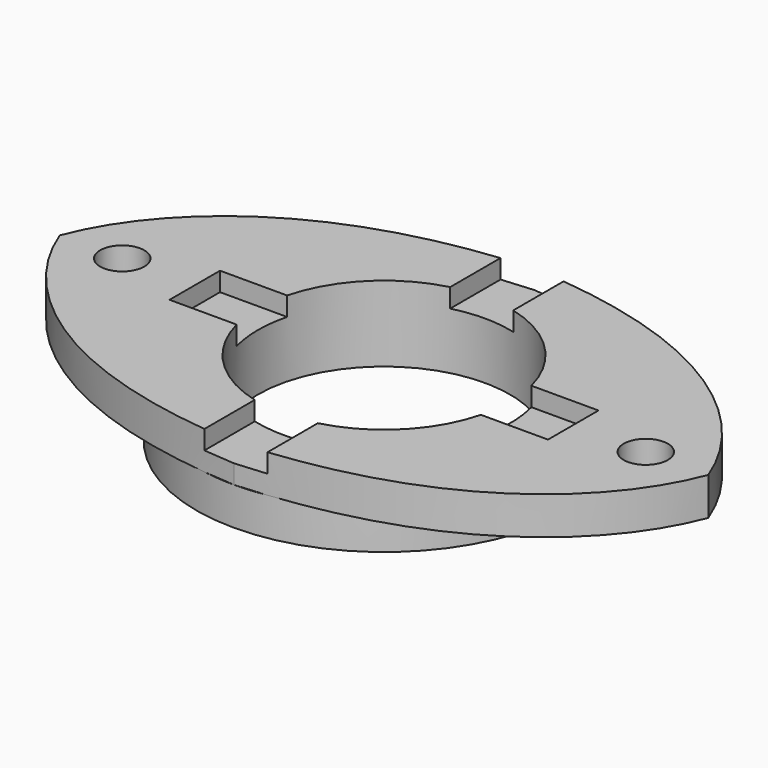
from build123d import *

# Parameters (mm, degrees)
F0_R      = 29.75
F1_DEPTH  = 6
F3_D      = 40
F5_DEPTH  = 6
F7_D      = 40
F9_D      = 7
F10_W     = 10
F10_H     = 65.1724559439
F11_DEPTH = 3
F12_W     = 60
F12_H     = 10
F13_DEPTH = 3


with BuildPart() as f1:
    # F0 (on Top) → F1 (new body)
    with BuildSketch(Plane.XY):
        Circle(F0_R)
    extrude(amount=F1_DEPTH)

    # F3 (through all)
    with Locations(Plane(origin=(0, 0, 0), x_dir=(1, 0, 0), z_dir=(0, 0, -1))):
        with Locations((0, 0)):
            Hole(F3_D / 2)

    # F4 (on face) → F5 (join)
    with BuildSketch(Plane.XY.offset(6)):
        with BuildLine():
            add(Edge.make_bspline(
                [(-51.4080040157, 0), (-48.3840033412, 7.9380003735), (-35.2209347961, 22.8401058322), (-13.735502027, 28.9573147893), (0, 29.75)],
                knots=[0, 0, 0, 0, 0.4596753041, 1, 1, 1, 1], degree=3))
            add(Edge.make_bspline(
                [(-51.4080040157, 0), (-48.3840033412, -7.9380003735), (-35.2209347961, -22.8401058322), (-13.735502027, -28.9573147893), (0, -29.75)],
                knots=[0, 0, 0, 0, 0.4596753041, 1, 1, 1, 1], degree=3))
            add(Edge.make_bspline(
                [(51.4080040157, 0), (48.3840033412, -7.9380003735), (35.2209347961, -22.8401058322), (13.735502027, -28.9573147893), (0, -29.75)],
                knots=[0, 0, 0, 0, 0.4596753041, 1, 1, 1, 1], degree=3))
            add(Edge.make_bspline(
                [(51.4080040157, 0), (48.3840033412, 7.9380003735), (35.2209347961, 22.8401058322), (13.735502027, 28.9573147893), (0, 29.75)],
                knots=[0, 0, 0, 0, 0.4596753041, 1, 1, 1, 1], degree=3))
        make_face()
    extrude(amount=F5_DEPTH)

    # F7 (through all)
    with Locations(Plane.XY.offset(12)):
        with Locations((0, 0)):
            Hole(F7_D / 2)

    # F9 (through all)
    with Locations(Plane.XY.offset(12)):
        with Locations((-41.5, 0), (41.5, 0)):
            Hole(F9_D / 2)

    # F10 (on face) → F11 (cut)
    with BuildSketch(Plane.XY.offset(12)):
        Rectangle(F10_W, F10_H)
    extrude(amount=-F11_DEPTH, mode=Mode.SUBTRACT)

    # F12 (on face) → F13 (cut)
    with BuildSketch(Plane.XY.offset(12)):
        Rectangle(F12_W, F12_H)
    extrude(amount=-F13_DEPTH, mode=Mode.SUBTRACT)


solid = f1.part
